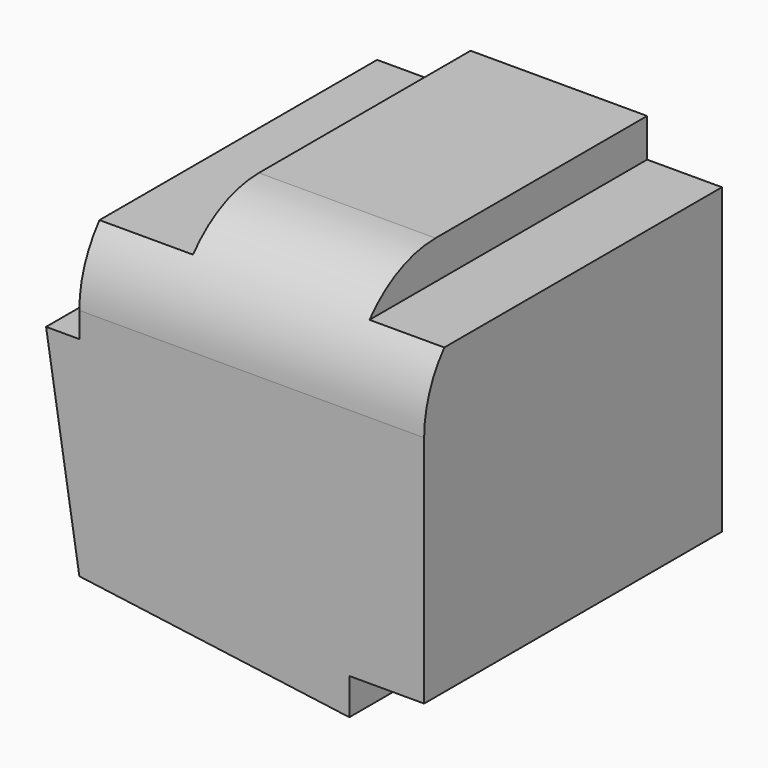
from build123d import *

# Parameters (mm, degrees)
F1_DEPTH = 97.536
F2_R     = 28.207671


with BuildPart() as f1:
    # F0 (on Front) → F1 (new body)
    with BuildSketch(Plane.XZ):
        Polygon((-20.546786, 40.685356), (-45.039643, 40.685356), (-45.039643, 15.920358), (-53.748216, 15.920358), (-45.039643, -38.780358), (25.717502, -48.305355), (25.717502, -38.780358), (45.311786, -38.780358), (45.311786, 40.685356), (25.717502, 40.685356), (25.717502, 50.754644), (-20.546786, 50.754644), align=None)
    extrude(amount=F1_DEPTH)

    # F2
    f2_edges = [f1.edges().sort_by_distance(p)[0] for p in [
        (2.585358, -97.536, 50.754644),
    ]]
    fillet(f2_edges, radius=F2_R)


solid = f1.part
